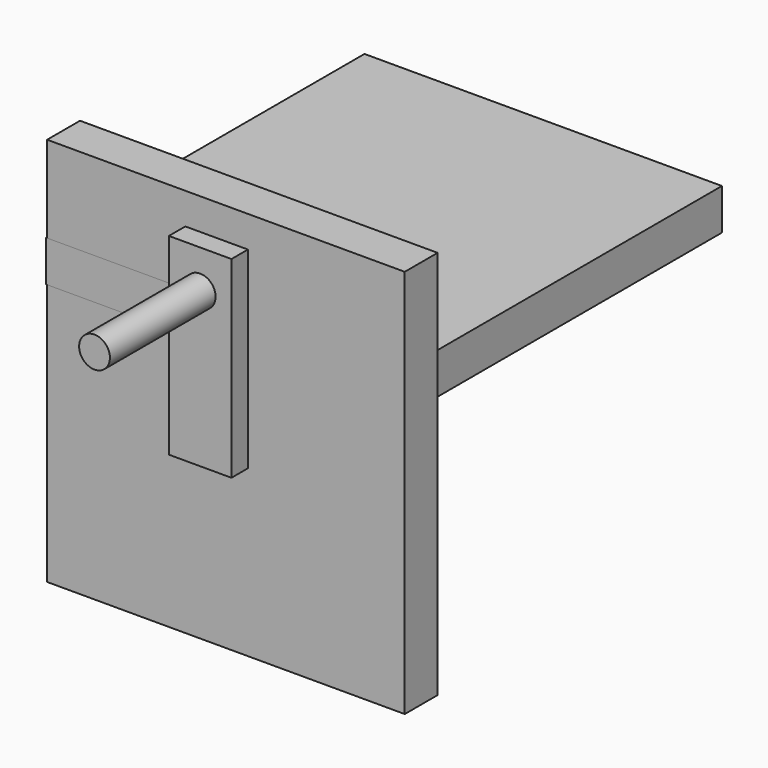
from build123d import *

# Parameters (mm, degrees)
F0_W          = 38.661484
F0_H          = 119.03402
F1_DEPTH      = 12.7
F3_R          = 12.7
F4_DEPTH      = 183.44656
F4_DEPTH_BACK = 8.28374
F2_R          = 9.525
F5_DEPTH      = 94.33232
F6_W          = 221.033588
F6_H          = 240.64786
F7_DEPTH      = 25.4
F8_W          = 220.933356
F8_H          = 245.975703
F9_DEPTH      = 25.4


with BuildPart() as f1:
    # F0 (on Front) → F1 (new body)
    with BuildSketch(Plane.XZ):
        Rectangle(F0_W, F0_H)
    extrude(amount=F1_DEPTH)

    # F3 (on Front) → F4 (join, two sides)
    with BuildSketch(Plane.XZ) as f4_sk:
        with Locations((0, -35.640396)):
            Circle(F3_R)
    extrude(amount=-F4_DEPTH)
    extrude(f4_sk.sketch, amount=-F4_DEPTH_BACK)

    # F2 (on Front) → F5 (join)
    with BuildSketch(Plane.XZ):
        with Locations((0, 35.779871)):
            Circle(F2_R)
    extrude(amount=F5_DEPTH)

    # F6 (on Front) → F7 (join)
    with BuildSketch(Plane.XZ):
        with Locations((5.755909, -41.401114)):
            Rectangle(F6_W, F6_H)
    extrude(amount=-F7_DEPTH)

    # F8 (on Top) → F9 (join)
    with BuildSketch(Plane.XY):
        with Locations((5.063448, 122.987851)):
            Rectangle(F8_W, F8_H)
    extrude(amount=F9_DEPTH)


solid = f1.part
